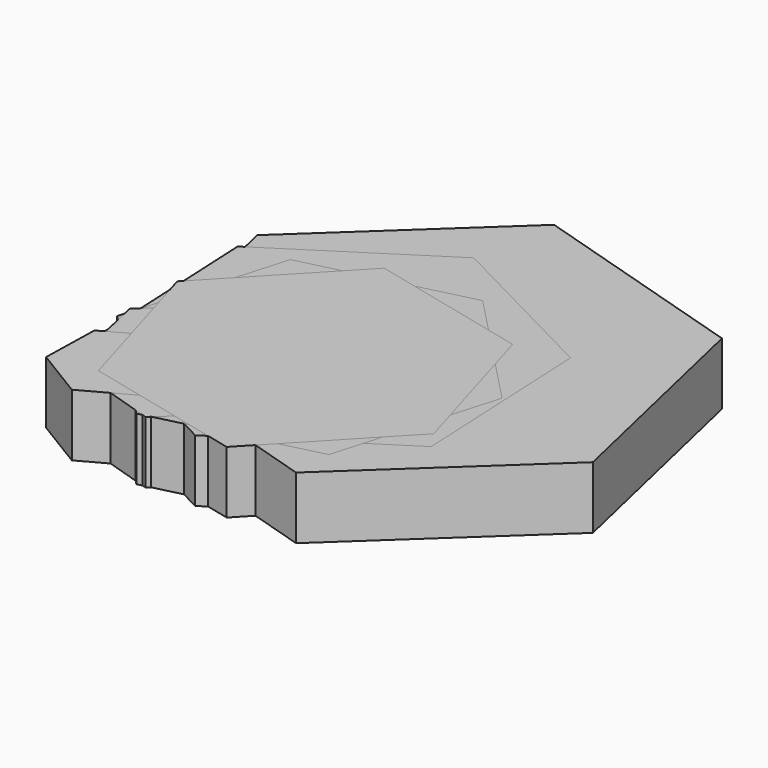
from build123d import *

# Parameters (mm, degrees)
PAD_DEPTH    = 10
PAD001_DEPTH = 10
PAD002_DEPTH = 10
PAD003_DEPTH = 10
PAD004_DEPTH = 10
PAD005_DEPTH = 10
PAD006_DEPTH = 10
PAD007_DEPTH = 10
PAD008_DEPTH = 10
PAD009_DEPTH = 10
PAD010_DEPTH = 10
PAD011_DEPTH = 10
PAD012_DEPTH = 10


with BuildPart() as body001:
    # Sketch → Pad (new body)
    with BuildSketch(Plane.XY):
        Polygon((0, 0), (35.730759, -10.942726), (63.072817, 14.529657), (54.684116, 50.944764), (18.953357, 61.88749), (-8.388701, 36.415108), align=None)
    extrude(amount=PAD_DEPTH)


with BuildPart() as body001_1:
    # Body001 placement: moved
    add(body001.part.moved(Location((8.388701, 10.942726, 0))))


with BuildPart() as body:
    # Sketch001 → Pad001 (new body)
    with BuildSketch(Plane.XY):
        Polygon((0, 0), (16.229028, -5.127638), (28.784207, 6.363294), (25.110358, 22.981864), (8.881329, 28.109502), (-3.67385, 16.61857), align=None)
    extrude(amount=PAD001_DEPTH)


with BuildPart() as body_1:
    # Body placement: moved
    add(body.part.moved(Location((3.67385, 5.127638, 0))))


with BuildPart() as body002:
    # Sketch002 → Pad002 (new body)
    with BuildSketch(Plane.XY):
        Polygon((0, 0), (18.058287, 19.034859), (10.60276, 44.191224), (-14.911055, 50.31273), (-32.969343, 31.277871), (-25.513815, 6.121506), align=None)
    extrude(amount=PAD002_DEPTH)


with BuildPart() as body002_1:
    # Body002 placement: moved
    add(body002.part.moved(Location((32.969343, 0, 0))))


with BuildPart() as body003:
    # Sketch003 → Pad003 (new body)
    with BuildSketch(Plane.XY):
        Polygon((0, 0), (-8.070428, 4.915804), (-16.362853, 0.38451), (-16.58485, -9.062588), (-8.514422, -13.978392), (-0.221997, -9.447098), align=None)
    extrude(amount=PAD003_DEPTH)


with BuildPart() as body003_1:
    # Body003 placement: moved
    add(body003.part.moved(Location((16.58485, 13.978392, 0))))


with BuildPart() as body004:
    # Sketch004 → Pad004 (new body)
    with BuildSketch(Plane.XY):
        Polygon((0, 0), (1.421615, -29.758589), (27.904117, -43.406729), (52.965004, -27.29628), (51.543389, 2.46231), (25.060887, 16.11045), align=None)
    extrude(amount=PAD004_DEPTH)


with BuildPart() as body004_1:
    # Body004 placement: moved
    add(body004.part.moved(Location((0, 43.406729, 0))))


with BuildPart() as body005:
    # Sketch005 → Pad005 (new body)
    with BuildSketch(Plane.XY):
        Polygon((0, 0), (-18.448006, 19.18032), (-44.282653, 12.794037), (-51.669294, -12.772565), (-33.221288, -31.952884), (-7.386641, -25.566602), align=None)
    extrude(amount=PAD005_DEPTH)


with BuildPart() as body005_1:
    # Body005 placement: moved
    add(body005.part.moved(Location((51.669294, 31.952884, 0))))


with BuildPart() as body006:
    # Sketch006 → Pad006 (new body)
    with BuildSketch(Plane.XY):
        Polygon((0, 0), (16.229028, -5.127638), (28.784207, 6.363294), (25.110358, 22.981864), (8.881329, 28.109502), (-3.67385, 16.61857), align=None)
    extrude(amount=PAD006_DEPTH)


with BuildPart() as body006_1:
    # Body006 placement: moved
    add(body006.part.moved(Location((3.67385, 5.127638, 0))))


with BuildPart() as body007:
    # Sketch007 → Pad007 (new body)
    with BuildSketch(Plane.XY):
        Polygon((0, 0), (16.229028, -5.127638), (28.784207, 6.363294), (25.110358, 22.981864), (8.881329, 28.109502), (-3.67385, 16.61857), align=None)
    extrude(amount=PAD007_DEPTH)


with BuildPart() as body007_1:
    # Body007 placement: moved
    add(body007.part.moved(Location((3.67385, 5.127638, 0))))


with BuildPart() as body008:
    # Sketch008 → Pad008 (new body)
    with BuildSketch(Plane.XY):
        Polygon((0, 0), (-8.070428, 4.915804), (-16.362853, 0.38451), (-16.58485, -9.062588), (-8.514422, -13.978392), (-0.221997, -9.447098), align=None)
    extrude(amount=PAD008_DEPTH)


with BuildPart() as body008_1:
    # Body008 placement: moved
    add(body008.part.moved(Location((16.58485, 13.978392, 0))))


with BuildPart() as body009:
    # Sketch009 → Pad009 (new body)
    with BuildSketch(Plane.XY):
        Polygon((0, 0), (-8.070428, 4.915804), (-16.362853, 0.38451), (-16.58485, -9.062588), (-8.514422, -13.978392), (-0.221997, -9.447098), align=None)
    extrude(amount=PAD009_DEPTH)


with BuildPart() as body009_1:
    # Body009 placement: moved
    add(body009.part.moved(Location((16.58485, 13.978392, 0))))


with BuildPart() as body010:
    # Sketch010 → Pad010 (new body)
    with BuildSketch(Plane.XY):
        Polygon((0, 0), (-8.070428, 4.915804), (-16.362853, 0.38451), (-16.58485, -9.062588), (-8.514422, -13.978392), (-0.221997, -9.447098), align=None)
    extrude(amount=PAD010_DEPTH)


with BuildPart() as body010_1:
    # Body010 placement: moved
    add(body010.part.moved(Location((16.58485, 13.978392, 0))))


with BuildPart() as body011:
    # Sketch011 → Pad011 (new body)
    with BuildSketch(Plane.XY):
        Polygon((0, 0), (18.058287, 19.034859), (10.60276, 44.191224), (-14.911055, 50.31273), (-32.969343, 31.277871), (-25.513815, 6.121506), align=None)
    extrude(amount=PAD011_DEPTH)


with BuildPart() as body011_1:
    # Body011 placement: moved
    add(body011.part.moved(Location((32.969343, 0, 0))))


with BuildPart() as body012:
    # Sketch012 → Pad012 (new body)
    with BuildSketch(Plane.XY):
        Polygon((0, 0), (18.058287, 19.034859), (10.60276, 44.191224), (-14.911055, 50.31273), (-32.969343, 31.277871), (-25.513815, 6.121506), align=None)
    extrude(amount=PAD012_DEPTH)


with BuildPart() as body012_1:
    # Body012 placement: moved
    add(body012.part.moved(Location((32.969343, 0, 0))))


solid = Compound([body001_1.part, body_1.part, body002_1.part, body003_1.part, body004_1.part, body005_1.part, body006_1.part, body007_1.part, body008_1.part, body009_1.part, body010_1.part, body011_1.part, body012_1.part])
